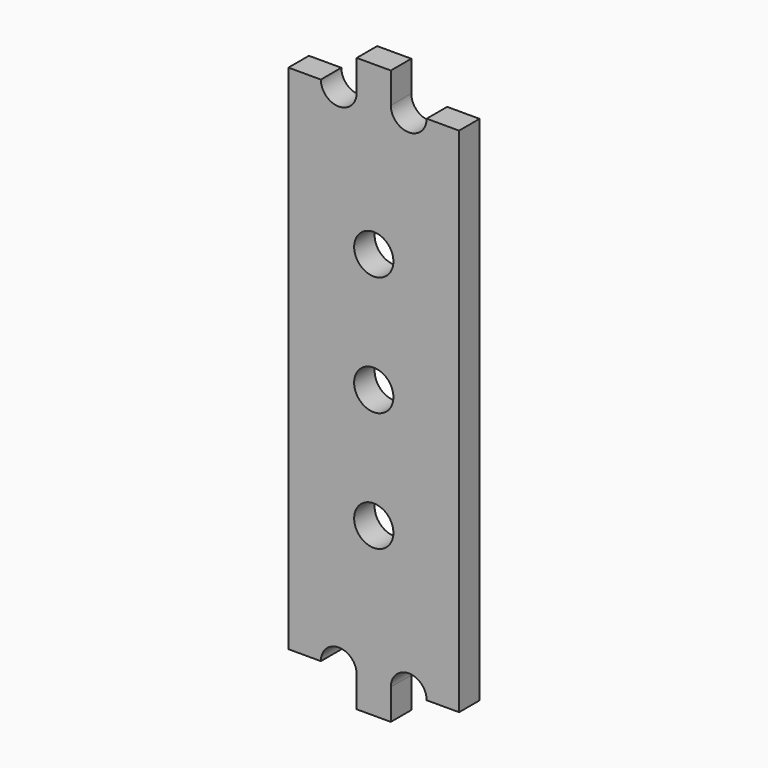
from build123d import *

# Parameters (mm, degrees)
F0_R     = 1.15
F1_DEPTH = 1.5


with BuildPart() as f1:
    # F0 (on Front) → F1 (new body)
    with BuildSketch(Plane.XZ):
        with BuildLine():
            Line((-5, 15), (-5, 0))
            Line((-5, 0), (-5, -15))
            Line((-5, -15), (-3.1, -15))
            ThreePointArc((-3.1, -15), (-2.05, -13.95), (-1, -15))
            Line((-1, -15), (-1, -16.8))
            Line((-1, -16.8), (0, -16.8))
            Line((0, -16.8), (1, -16.8))
            Line((1, -16.8), (1, -15))
            ThreePointArc((1, -15), (2.05, -13.95), (3.1, -15))
            Line((3.1, -15), (5, -15))
            Line((5, -15), (5, 0))
            Line((5, 0), (5, 15))
            Line((5, 15), (3.1, 15))
            ThreePointArc((3.1, 15), (2.05, 13.95), (1, 15))
            Line((1, 15), (1, 16.8))
            Line((1, 16.8), (0, 16.8))
            Line((0, 16.8), (-1, 16.8))
            Line((-1, 16.8), (-1, 15))
            ThreePointArc((-1, 15), (-2.05, 13.95), (-3.1, 15))
            Line((-3.1, 15), (-5, 15))
        make_face()
        with Locations((0, -7)):
            Circle(F0_R, mode=Mode.SUBTRACT)
        Circle(F0_R, mode=Mode.SUBTRACT)
        with Locations((0, 7)):
            Circle(F0_R, mode=Mode.SUBTRACT)
    extrude(amount=F1_DEPTH)


solid = f1.part
